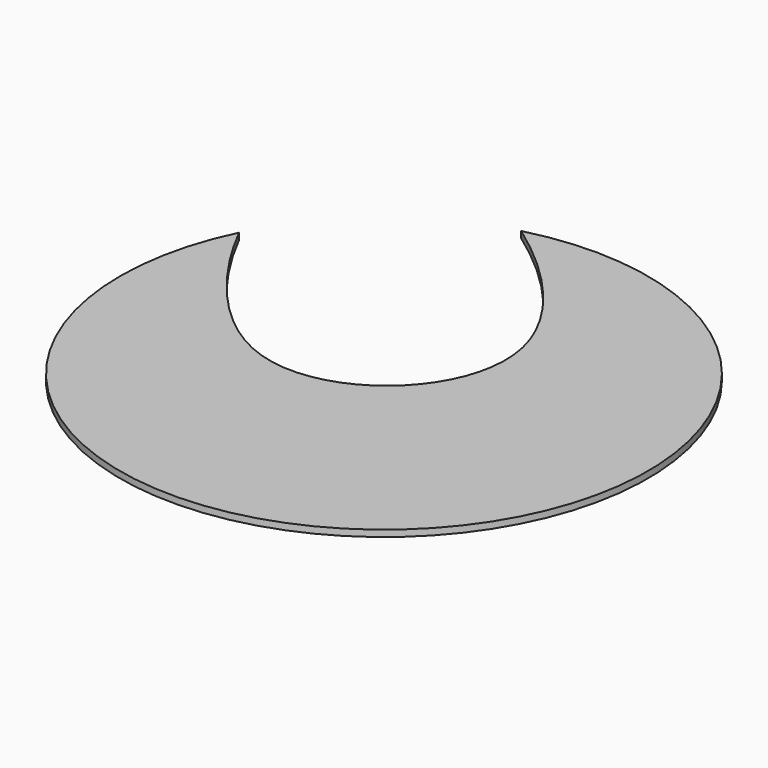
from build123d import *

# Parameters (mm, degrees)
F0_R     = 40.4638947202
F1_DEPTH = 1
F4_DEPTH = 25.4


with BuildPart() as f1:
    # F0 (on Top) → F1 (new body)
    with BuildSketch(Plane.XY):
        with Locations((39.8994428169, 40.4380597174)):
            Circle(F0_R)
    extrude(amount=F1_DEPTH)

    # F3 (on face) → F4 (cut)
    with BuildSketch(Plane.XY.offset(1)):
        with BuildLine():
            add(Edge.make_bspline(
                [(48.6232154071, 56.1531186104), (51.7291076024, 42.5130680399), (29.301721138, 22.812574796), (8.7396566752, 47.8619746328), (3.5192503819, 58.1526970075)],
                knots=[0, 0, 0, 0, 0.2700912185, 0.4383639234, 0.4383639234, 0.4383639234, 0.4383639234], degree=3))
            add(Edge.make_bspline(
                [(29.6286944761, 79.5767682353), (38.752644476, 73.1174990169), (46.7537387272, 64.3632414516), (48.6232154071, 56.1531186104)],
                knots=[0.8374286025, 0.8374286025, 0.8374286025, 0.8374286025, 1, 1, 1, 1], degree=3))
            ThreePointArc((29.6286944761, 79.5767682353), (14.2318508806, 71.7190683347), (3.5192503819, 58.1526970075))
        make_face()
    extrude(amount=-F4_DEPTH, mode=Mode.SUBTRACT)


solid = f1.part
